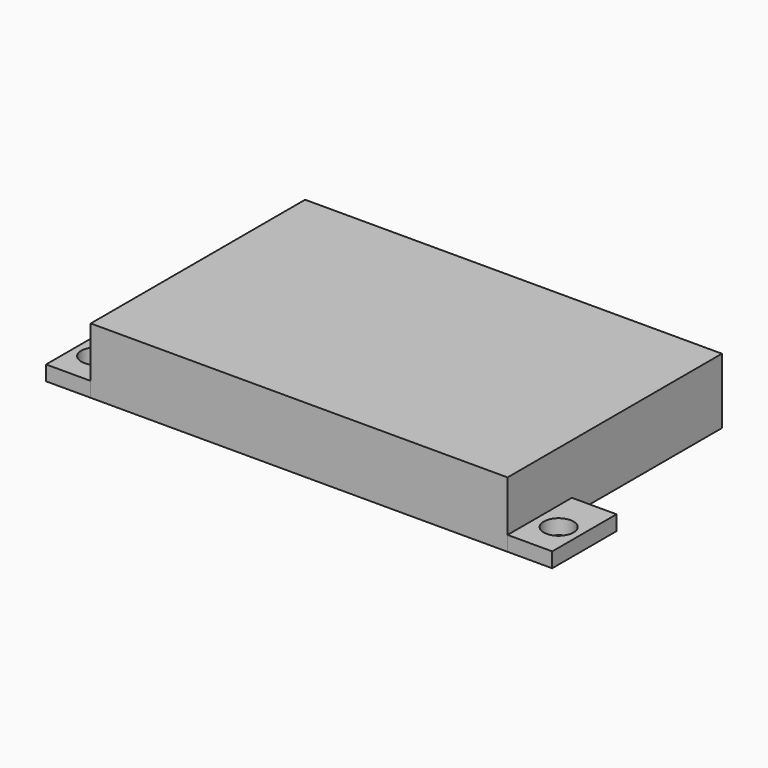
from build123d import *

# Parameters (mm, degrees)
SKETCH_W     = 280
SKETCH_H     = 180
PAD_DEPTH    = 44
SKETCH001_W  = 30
SKETCH001_H  = 54
SKETCH001_R  = 10
PAD001_DEPTH = 10


with BuildPart() as pad:
    # Sketch → Pad (new body)
    with BuildSketch(Plane.XY):
        Rectangle(SKETCH_W, SKETCH_H)
    extrude(amount=PAD_DEPTH)


with BuildPart() as pad001:
    # Sketch001 → Pad001 (new body)
    with BuildSketch(Plane.XY):
        with Locations((155, -63)):
            Rectangle(SKETCH001_W, SKETCH001_H)
        with Locations((155.331384, -66.256242)):
            Circle(SKETCH001_R, mode=Mode.SUBTRACT)
        with Locations((-155, -63)):
            Rectangle(SKETCH001_W, SKETCH001_H)
        with Locations((-155.331384, -66.256242)):
            Circle(SKETCH001_R, mode=Mode.SUBTRACT)
    extrude(amount=PAD001_DEPTH)


solid = Compound([pad.part, pad001.part])
